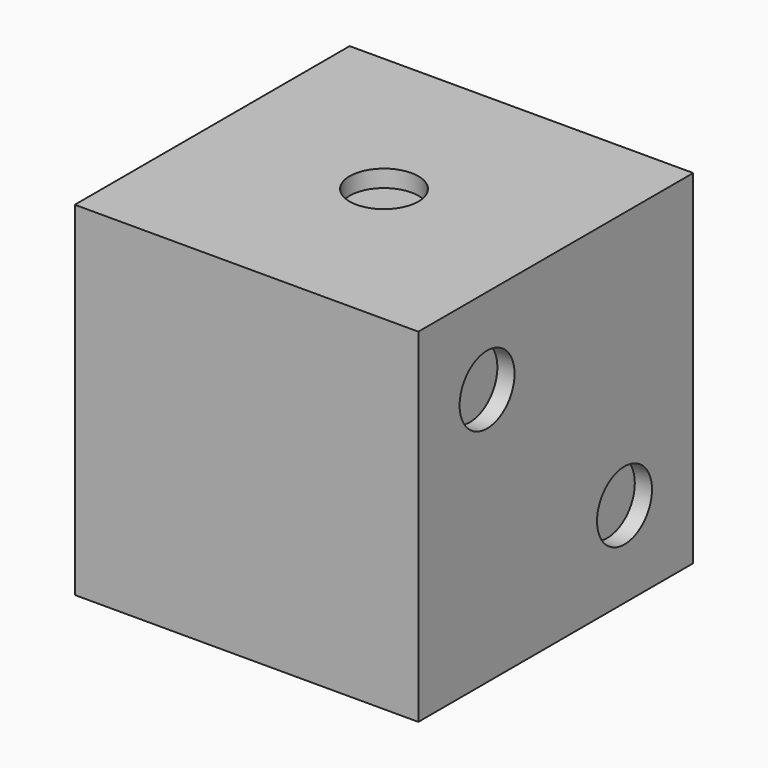
from build123d import *

# Parameters (mm, degrees)
F0_W     = 20
F0_H     = 20
F1_DEPTH = 20
F2_R     = 2
F4_DEPTH = 1
F3_R     = 2
F5_DEPTH = 1
F6_R     = 2
F7_DEPTH = 1
F8_R     = 2
F9_DEPTH = 1


with BuildPart() as f1:
    # F0 (on Top) → F1 (new body)
    with BuildSketch(Plane.XY):
        with Locations((-10, 10)):
            Rectangle(F0_W, F0_H)
    extrude(amount=F1_DEPTH)

    # F2 (on face) → F4 (cut)
    with BuildSketch(Plane.XY.offset(20)):
        with Locations((-10, 10)):
            Circle(F2_R)
    extrude(amount=-F4_DEPTH, mode=Mode.SUBTRACT)

    # F3 (on face) → F5 (cut)
    with BuildSketch(Plane.YZ):
        with Locations((15, 5)):
            Circle(F3_R)
        with Locations((5, 15)):
            Circle(F3_R)
    extrude(amount=-F5_DEPTH, mode=Mode.SUBTRACT)

    # F6 (on face) → F7 (cut)
    with BuildSketch(Plane(origin=(0, 20, 0), x_dir=(-1, 0, 0), z_dir=(0, 1, 0))):
        with Locations((15, 5)):
            Circle(F6_R)
        with Locations((5, 5)):
            Circle(F6_R)
        with Locations((5, 15)):
            Circle(F6_R)
        with Locations((15, 15)):
            Circle(F6_R)
    extrude(amount=-F7_DEPTH, mode=Mode.SUBTRACT)

    # F8 (on face) → F9 (cut)
    with BuildSketch(Plane(origin=(-20, 0, 0), x_dir=(0, -1, 0), z_dir=(-1, 0, 0))):
        with Locations((-10, 10)):
            Circle(F8_R)
        with Locations((-5, 15)):
            Circle(F8_R)
        with Locations((-5, 5)):
            Circle(F8_R)
        with Locations((-15, 5)):
            Circle(F8_R)
        with Locations((-15, 15)):
            Circle(F8_R)
    extrude(amount=-F9_DEPTH, mode=Mode.SUBTRACT)


solid = f1.part
